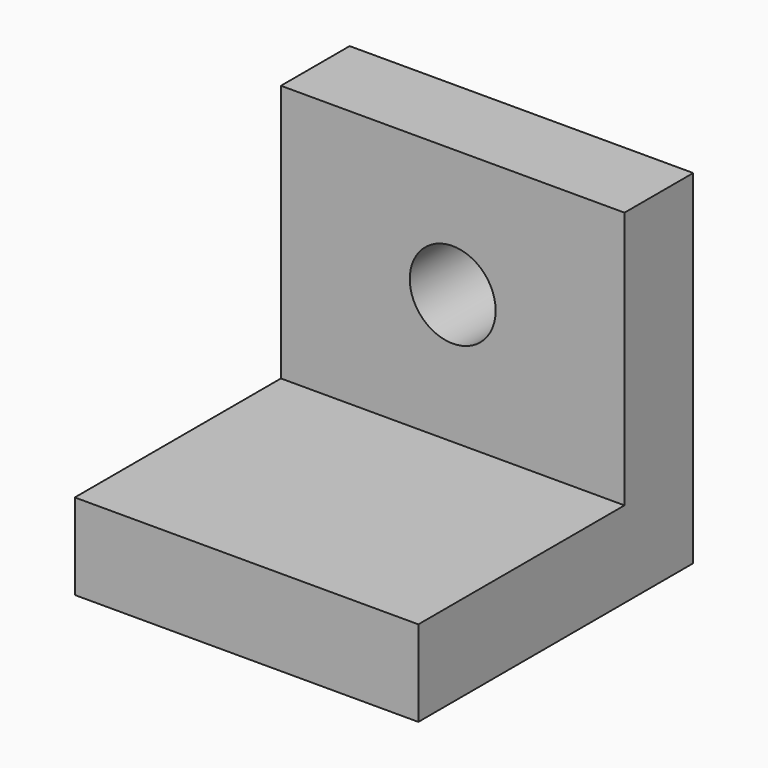
from build123d import *

# Parameters (mm, degrees)
F0_W     = 50.8
F0_H     = 12.7
F1_DEPTH = 50.8
F0_H_2   = 38.1
F0_R     = 6.35
F2_DEPTH = 12.7


with BuildPart() as f1:
    # F0 (on Front) → F1 (new body)
    with BuildSketch(Plane.XZ):
        with Locations((19.654179, -36.114852)):
            Rectangle(F0_W, F0_H)
    extrude(amount=F1_DEPTH)

    # F0 (on Front) → F2 (join)
    with BuildSketch(Plane.XZ):
        with Locations((19.654179, -10.714852)):
            Rectangle(F0_W, F0_H_2)
        with Locations((19.654179, -10.616099)):
            Circle(F0_R, mode=Mode.SUBTRACT)
        with Locations((19.654179, -36.114852)):
            Rectangle(F0_W, F0_H)
    extrude(amount=F2_DEPTH)


solid = f1.part
